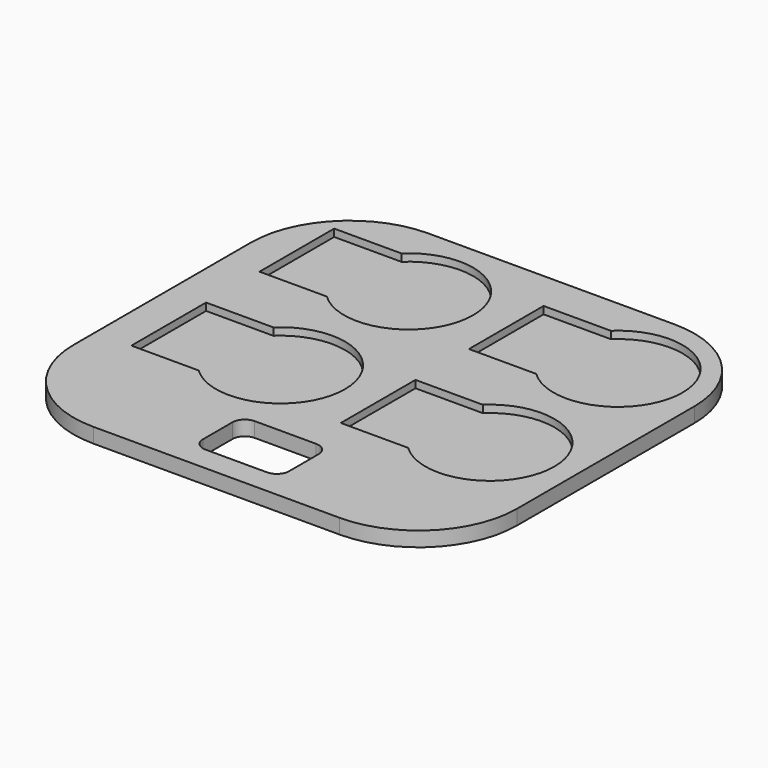
from build123d import *

# Parameters (mm, degrees)
F1_DEPTH = 6
F3_DEPTH = 3
F5_DEPTH = 25


with BuildPart() as f1:
    # F0 (on Top) → F1 (new body)
    with BuildSketch(Plane.XY):
        with BuildLine():
            Line((0, 85), (-50, 85))
            ThreePointArc((-50, 85), (-78.284271, 73.284271), (-90, 45))
            Line((-90, 45), (-90, -45))
            ThreePointArc((-90, -45), (-78.284271, -73.284271), (-50, -85))
            Line((-50, -85), (50, -85))
            ThreePointArc((50, -85), (78.284271, -73.284271), (90, -45))
            Line((90, -45), (90, 0))
            Line((90, 0), (0, 0))
            Line((0, 0), (0, 85))
        make_face()
        with BuildLine():
            Line((50, 85), (0, 85))
            Line((0, 85), (0, 0))
            Line((0, 0), (90, 0))
            Line((90, 0), (90, 45))
            ThreePointArc((90, 45), (78.284271, 73.284271), (50, 85))
        make_face()
    extrude(amount=F1_DEPTH)

    # F2 (on face) → F3 (cut)
    with BuildSketch(Plane.XY.offset(6)):
        with BuildLine():
            Line((-75.375, 31.06), (-48.066738, 31.06))
            ThreePointArc((-48.066738, 31.06), (-3.825, 50), (-48.066738, 68.94))
            Line((-48.066738, 68.94), (-75.375, 68.94))
            Line((-75.375, 68.94), (-75.375, 31.06))
        make_face()
        with BuildLine():
            ThreePointArc((-45.939166, 63.94), (-8.825, 50), (-45.939166, 36.06))
            Line((-45.939166, 36.06), (-70.375, 36.06))
            Line((-70.375, 36.06), (-70.375, 63.94))
            Line((-70.375, 63.94), (-45.939166, 63.94))
        make_face(mode=Mode.SUBTRACT)
        with BuildLine():
            Line((9.625, 31.06), (36.933262, 31.06))
            ThreePointArc((36.933262, 31.06), (81.175, 50), (36.933262, 68.94))
            Line((36.933262, 68.94), (9.625, 68.94))
            Line((9.625, 68.94), (9.625, 31.06))
        make_face()
        with BuildLine():
            Line((9.625, -33.94), (36.933262, -33.94))
            ThreePointArc((36.933262, -33.94), (81.175, -15), (36.933262, 3.94))
            Line((36.933262, 3.94), (9.625, 3.94))
            Line((9.625, 3.94), (9.625, -33.94))
        make_face()
        with BuildLine():
            Line((-75.375, -33.94), (-48.066738, -33.94))
            ThreePointArc((-48.066738, -33.94), (-3.825, -15), (-48.066738, 3.94))
            Line((-48.066738, 3.94), (-75.375, 3.94))
            Line((-75.375, 3.94), (-75.375, -33.94))
        make_face()
        with BuildLine():
            Line((-70.375, 36.06), (-45.939166, 36.06))
            ThreePointArc((-45.939166, 36.06), (-8.825, 50), (-45.939166, 63.94))
            Line((-45.939166, 63.94), (-70.375, 63.94))
            Line((-70.375, 63.94), (-70.375, 36.06))
        make_face()
    extrude(amount=-F3_DEPTH, mode=Mode.SUBTRACT)

    # F4 (on face) → F5 (cut)
    with BuildSketch(Plane.XY.offset(6)):
        with BuildLine():
            ThreePointArc((17.5, -55), (16.035534, -51.464466), (12.5, -50))
            Line((12.5, -50), (-12.5, -50))
            ThreePointArc((-12.5, -50), (-16.035534, -51.464466), (-17.5, -55))
            Line((-17.5, -55), (-17.5, -70))
            ThreePointArc((-17.5, -70), (-16.035534, -73.535534), (-12.5, -75))
            Line((-12.5, -75), (12.5, -75))
            ThreePointArc((12.5, -75), (16.035534, -73.535534), (17.5, -70))
            Line((17.5, -70), (17.5, -55))
        make_face()
    extrude(amount=-F5_DEPTH, mode=Mode.SUBTRACT)


solid = f1.part
